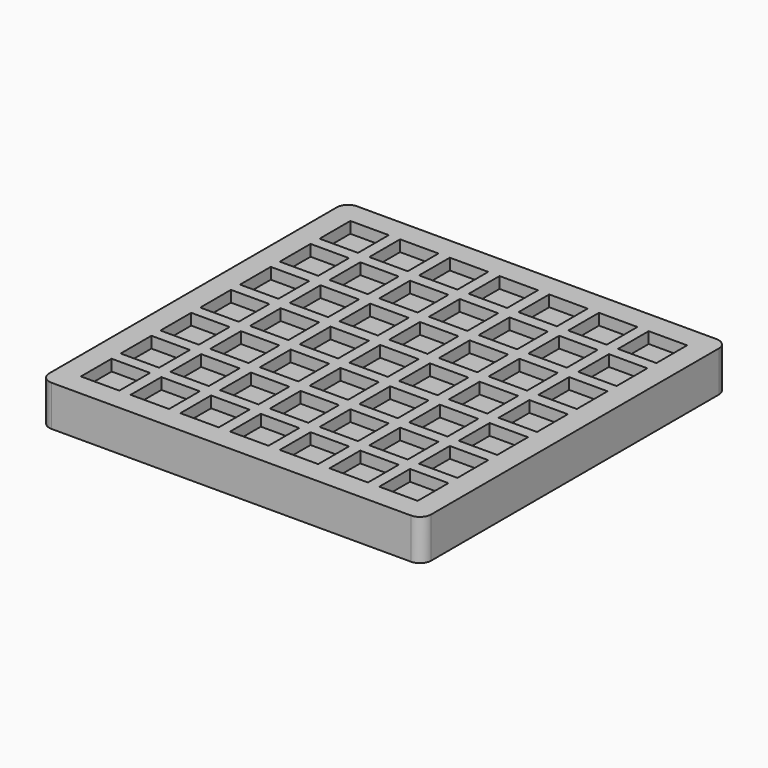
from build123d import *

# Parameters (mm, degrees)
SKETCH_W                     = 169
SKETCH_H                     = 169
PAD_DEPTH                    = 18
FILLET_R                     = 5
SKETCH001_W                  = 17
SKETCH001_H                  = 17
POCKET_DEPTH                 = 5
SKETCH001_LINEARPATTERN_2_W  = 17
SKETCH001_LINEARPATTERN_2_H  = 17
POCKET_LINEARPATTERN_2_DEPTH = 5
SKETCH001_LINEARPATTERN_3_W  = 17
SKETCH001_LINEARPATTERN_3_H  = 17
POCKET_LINEARPATTERN_3_DEPTH = 5
SKETCH001_LINEARPATTERN_4_W  = 17
SKETCH001_LINEARPATTERN_4_H  = 17
POCKET_LINEARPATTERN_4_DEPTH = 5
SKETCH001_LINEARPATTERN_5_W  = 17
SKETCH001_LINEARPATTERN_5_H  = 17
POCKET_LINEARPATTERN_5_DEPTH = 5
SKETCH001_LINEARPATTERN_6_W  = 17
SKETCH001_LINEARPATTERN_6_H  = 17
POCKET_LINEARPATTERN_6_DEPTH = 5
SKETCH001_LINEARPATTERN_7_W  = 17
SKETCH001_LINEARPATTERN_7_H  = 17
POCKET_LINEARPATTERN_7_DEPTH = 5
LINEARPATTERN001_COUNT       = 7
LINEARPATTERN001_PITCH       = 22


with BuildPart() as part:
    # Sketch → Pad (new body)
    with BuildSketch(Plane.XY):
        with Locations((84.5, 84.5)):
            Rectangle(SKETCH_W, SKETCH_H)
    extrude(amount=PAD_DEPTH)

    # Fillet
    fillet_edges = [part.edges().sort_by_distance(p)[0] for p in [
        (169, 0, 9),
        (169, 169, 9),
        (0, 0, 9),
        (0, 169, 9),
    ]]
    fillet(fillet_edges, radius=FILLET_R)

    # Sketch001 (on Face5 of Fillet) → Pocket (cut)
    with BuildSketch(Plane.XY.offset(18)):
        with Locations((18.5, 18.5)):
            Rectangle(SKETCH001_W, SKETCH001_H)
    pocket = extrude(amount=-POCKET_DEPTH, mode=Mode.SUBTRACT)

    # Sketch001 LinearPattern 2 → Pocket LinearPattern 2 (cut)
    with BuildSketch(Plane(origin=(22, 0, 18), x_dir=(1, 0, 0), z_dir=(0, 0, 1))):
        with Locations((18.5, 18.5)):
            Rectangle(SKETCH001_LINEARPATTERN_2_W, SKETCH001_LINEARPATTERN_2_H)
    pocket_linearpattern_2 = extrude(amount=-POCKET_LINEARPATTERN_2_DEPTH, mode=Mode.SUBTRACT)

    # Sketch001 LinearPattern 3 → Pocket LinearPattern 3 (cut)
    with BuildSketch(Plane(origin=(44, 0, 18), x_dir=(1, 0, 0), z_dir=(0, 0, 1))):
        with Locations((18.5, 18.5)):
            Rectangle(SKETCH001_LINEARPATTERN_3_W, SKETCH001_LINEARPATTERN_3_H)
    pocket_linearpattern_3 = extrude(amount=-POCKET_LINEARPATTERN_3_DEPTH, mode=Mode.SUBTRACT)

    # Sketch001 LinearPattern 4 → Pocket LinearPattern 4 (cut)
    with BuildSketch(Plane(origin=(66, 0, 18), x_dir=(1, 0, 0), z_dir=(0, 0, 1))):
        with Locations((18.5, 18.5)):
            Rectangle(SKETCH001_LINEARPATTERN_4_W, SKETCH001_LINEARPATTERN_4_H)
    pocket_linearpattern_4 = extrude(amount=-POCKET_LINEARPATTERN_4_DEPTH, mode=Mode.SUBTRACT)

    # Sketch001 LinearPattern 5 → Pocket LinearPattern 5 (cut)
    with BuildSketch(Plane(origin=(88, 0, 18), x_dir=(1, 0, 0), z_dir=(0, 0, 1))):
        with Locations((18.5, 18.5)):
            Rectangle(SKETCH001_LINEARPATTERN_5_W, SKETCH001_LINEARPATTERN_5_H)
    pocket_linearpattern_5 = extrude(amount=-POCKET_LINEARPATTERN_5_DEPTH, mode=Mode.SUBTRACT)

    # Sketch001 LinearPattern 6 → Pocket LinearPattern 6 (cut)
    with BuildSketch(Plane(origin=(110, 0, 18), x_dir=(1, 0, 0), z_dir=(0, 0, 1))):
        with Locations((18.5, 18.5)):
            Rectangle(SKETCH001_LINEARPATTERN_6_W, SKETCH001_LINEARPATTERN_6_H)
    pocket_linearpattern_6 = extrude(amount=-POCKET_LINEARPATTERN_6_DEPTH, mode=Mode.SUBTRACT)

    # Sketch001 LinearPattern 7 → Pocket LinearPattern 7 (cut)
    with BuildSketch(Plane(origin=(132, 0, 18), x_dir=(1, 0, 0), z_dir=(0, 0, 1))):
        with Locations((18.5, 18.5)):
            Rectangle(SKETCH001_LINEARPATTERN_7_W, SKETCH001_LINEARPATTERN_7_H)
    pocket_linearpattern_7 = extrude(amount=-POCKET_LINEARPATTERN_7_DEPTH, mode=Mode.SUBTRACT)

    # LinearPattern001: Pocket, Pocket LinearPattern 2, Pocket LinearPattern 3, Pocket LinearPattern 4, Pocket LinearPattern 5, Pocket LinearPattern 6, Pocket LinearPattern 7 ×7
    with Locations(*[(0, i * LINEARPATTERN001_PITCH, 0) for i in range(1, LINEARPATTERN001_COUNT)]):
        add(pocket, mode=Mode.SUBTRACT)
        add(pocket_linearpattern_2, mode=Mode.SUBTRACT)
        add(pocket_linearpattern_3, mode=Mode.SUBTRACT)
        add(pocket_linearpattern_4, mode=Mode.SUBTRACT)
        add(pocket_linearpattern_5, mode=Mode.SUBTRACT)
        add(pocket_linearpattern_6, mode=Mode.SUBTRACT)
        add(pocket_linearpattern_7, mode=Mode.SUBTRACT)


solid = part.part
